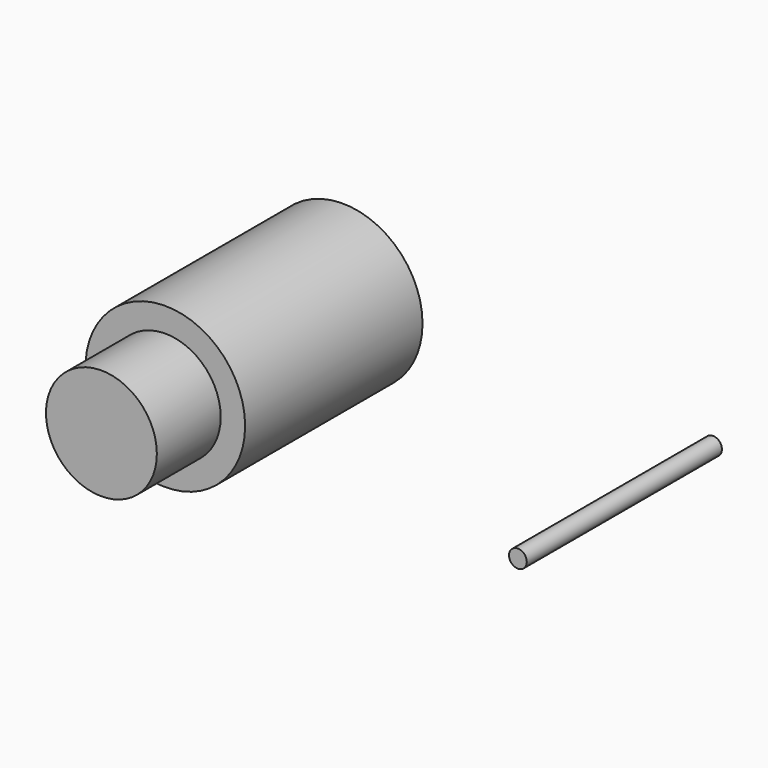
from build123d import *

# Parameters (mm, degrees)
F0_R     = 18
F1_DEPTH = 50
F2_R     = 12.5
F3_DEPTH = 18
F5_D     = 4.4
F5_DEPTH = 50
F5_TIP   = 1.3218933619
F6_R     = 2
F7_DEPTH = 55


with BuildPart() as f1:
    # F0 (on Front) → F1 (new body)
    with BuildSketch(Plane.XZ):
        Circle(F0_R)
    extrude(amount=F1_DEPTH)

    # F2 (on face) → F3 (join)
    with BuildSketch(Plane.XZ.offset(50)):
        Circle(F2_R)
    extrude(amount=F3_DEPTH)

    # F5
    with Locations(Plane(origin=(0, 0, 0), x_dir=(-1, 0, 0), z_dir=(0, 1, 0))):
        with Locations((0, 0)):
            Hole(F5_D / 2, depth=F5_DEPTH)
            with Locations((0, 0, -(F5_DEPTH + F5_TIP / 2))):  # 118° drill point
                Cone(0, F5_D / 2, F5_TIP, mode=Mode.SUBTRACT)


with BuildPart() as f7:
    # F6 (on Front) → F7 (new body)
    with BuildSketch(Plane.XZ):
        with Locations((83.5047364235, -2.9828166589)):
            Circle(F6_R)
    extrude(amount=F7_DEPTH)


solid = Compound([f1.part, f7.part])
